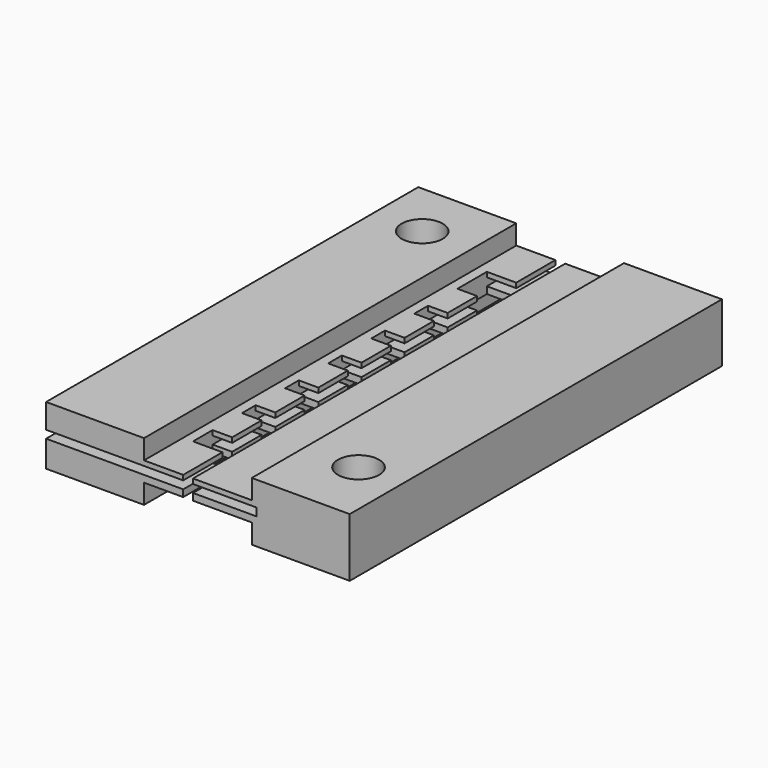
from build123d import *

# Parameters (mm, degrees)
BOX012_W          = 10
BOX012_H          = 95
BOX012_DEPTH      = 1.6
BOX013_W          = 50
BOX013_H          = 12
BOX013_DEPTH      = 1.6
CYLINDER_R        = 4.2
CYLINDER_DEPTH    = 20
CYLINDER001_R     = 4.2
CYLINDER001_DEPTH = 20
BOX009_W          = 20
BOX009_H          = 95
BOX009_DEPTH      = 12
BOX004_W          = 6
BOX004_H          = 10
BOX004_DEPTH      = 4
BOX001_W          = 4
BOX001_H          = 7.5
BOX001_DEPTH      = 4
ARRAY002_Y_COUNT  = 6
ARRAY002_Y_PITCH  = 11
BOX002_W          = 22
BOX002_H          = 95
BOX002_DEPTH      = 4
BOX005_W          = 6
BOX005_H          = 10
BOX005_DEPTH      = 4
BOX_W             = 32
BOX_H             = 95
BOX_DEPTH         = 4
BOX010_W          = 20
BOX010_H          = 95
BOX010_DEPTH      = 12


with BuildPart() as box012:
    # Box012 → Box012 (new body)
    with BuildSketch(Plane(origin=(-11, -19, -2.6), x_dir=(1, 0, 0), z_dir=(0, 0, 1))):
        with Locations((5, 47.5)):
            Rectangle(BOX012_W, BOX012_H)
    extrude(amount=BOX012_DEPTH)


with BuildPart() as fusion002006:
    # Box013 → Box013 (new body)
    with BuildSketch(Plane(origin=(-40, -20, -2.6), x_dir=(1, 0, 0), z_dir=(0, 0, 1))):
        with Locations((25, 6)):
            Rectangle(BOX013_W, BOX013_H)
    extrude(amount=BOX013_DEPTH)

    # Fusion002006: union Box012
    add(box012.part)


with BuildPart() as cylinder:
    # Cylinder → Cylinder (new body)
    with BuildSketch(Plane(origin=(20, -6, -10), x_dir=(1, 0, 0), z_dir=(0, 0, 1))):
        Circle(CYLINDER_R)
    extrude(amount=CYLINDER_DEPTH)


with BuildPart() as fusion002005:
    # Cylinder001 → Cylinder001 (new body)
    with BuildSketch(Plane(origin=(-23, 64, -10), x_dir=(1, 0, 0), z_dir=(0, 0, 1))):
        Circle(CYLINDER001_R)
    extrude(amount=CYLINDER001_DEPTH)

    # Fusion002005: union Cylinder
    add(cylinder.part)


with BuildPart() as box009:
    # Box009 → Box009 (new body)
    with BuildSketch(Plane(origin=(9, -19.5, -8), x_dir=(1, 0, 0), z_dir=(0, 0, 1))):
        with Locations((10, 47.5)):
            Rectangle(BOX009_W, BOX009_H)
    extrude(amount=BOX009_DEPTH)


with BuildPart() as obj1:
    # Box004 → Box004 (new body)
    with BuildSketch(Plane(origin=(-11, -19.5, -4), x_dir=(1, 0, 0), z_dir=(0, 0, 1))):
        with Locations((3, 5)):
            Rectangle(BOX004_W, BOX004_H)
    extrude(amount=BOX004_DEPTH)


with BuildPart() as array002:
    # Box001 → Box001 (new body)
    with BuildSketch(Plane(origin=(-11, 50.5, -4), x_dir=(1, 0, 0), z_dir=(0, 0, 1))):
        with Locations((2, 3.75)):
            Rectangle(BOX001_W, BOX001_H)
    extrude(amount=BOX001_DEPTH)

    # Array002 Y: Array002 ×6


with BuildPart() as array002_1:
    add(array002.part)
    with Locations(*[(0, -i * ARRAY002_Y_PITCH, 0) for i in range(1, ARRAY002_Y_COUNT)]):
        add(array002.part)


with BuildPart() as fusion:
    # Box002 → Box002 (new body)
    with BuildSketch(Plane(origin=(-33, -19.5, -4), x_dir=(1, 0, 0), z_dir=(0, 0, 1))):
        with Locations((11, 47.5)):
            Rectangle(BOX002_W, BOX002_H)
    extrude(amount=BOX002_DEPTH)

    # Fusion: union Array002
    add(array002_1.part)


with BuildPart() as fusion001:
    # Box005 → Box005 (new body)
    with BuildSketch(Plane(origin=(-11, 65.5, -4), x_dir=(1, 0, 0), z_dir=(0, 0, 1))):
        with Locations((3, 5)):
            Rectangle(BOX005_W, BOX005_H)
    extrude(amount=BOX005_DEPTH)

    # Fusion001: union obj1, Fusion
    add(obj1.part)
    add(fusion.part)


with BuildPart() as fusion002:
    # Box → Box (new body)
    with BuildSketch(Plane(origin=(-3, -19.5, -4), x_dir=(1, 0, 0), z_dir=(0, 0, 1))):
        with Locations((16, 47.5)):
            Rectangle(BOX_W, BOX_H)
    extrude(amount=BOX_DEPTH)

    # Fusion002: union Fusion001
    add(fusion001.part)


with BuildPart() as cut002:
    # Box010 → Box010 (new body)
    with BuildSketch(Plane(origin=(-33, -19.5, -8), x_dir=(1, 0, 0), z_dir=(0, 0, 1))):
        with Locations((10, 47.5)):
            Rectangle(BOX010_W, BOX010_H)
    extrude(amount=BOX010_DEPTH)

    # Fusion002003: union Box009, Fusion002
    add(box009.part)
    add(fusion002.part)

    # Cut001: cut Fusion002005
    add(fusion002005.part, mode=Mode.SUBTRACT)

    # Cut002: cut Fusion002006
    add(fusion002006.part, mode=Mode.SUBTRACT)


solid = cut002.part
